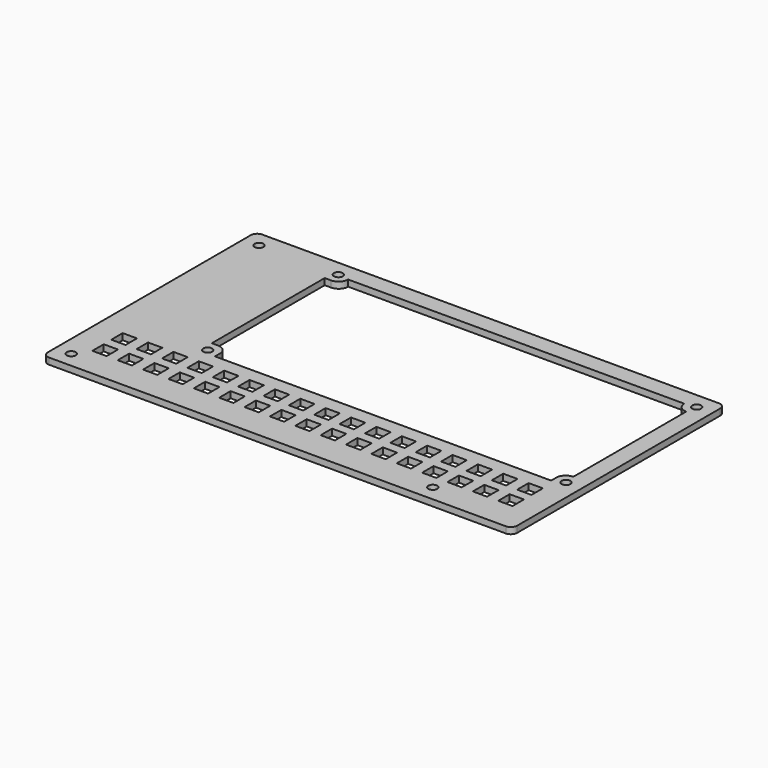
from build123d import *

# Parameters (mm, degrees)
F0_R     = 1.4
F0_W     = 4.5
F0_H     = 4.5
F1_DEPTH = 2


with BuildPart() as f1:
    # F0 (on Top) → F1 (new body)
    with BuildSketch(Plane.XY):
        with BuildLine():
            Line((71.545826, 22.863086), (-72.454174, 22.863086))
            ThreePointArc((-72.454174, 22.863086), (-73.868388, 22.277299), (-74.454174, 20.863086))
            Line((-74.454174, 20.863086), (-74.454174, -59.136914))
            ThreePointArc((-74.454174, -59.136914), (-73.868388, -60.551128), (-72.454174, -61.136914))
            Line((-72.454174, -61.136914), (71.545826, -61.136914))
            ThreePointArc((71.545826, -61.136914), (72.960039, -60.551128), (73.545826, -59.136914))
            Line((73.545826, -59.136914), (73.545826, 20.863086))
            ThreePointArc((73.545826, 20.863086), (72.960039, 22.277299), (71.545826, 22.863086))
        make_face()
        with Locations((-69.454174, -56.136914)):
            Circle(F0_R, mode=Mode.SUBTRACT)
        with Locations((-64.137191, -49.445186)):
            Rectangle(F0_W, F0_H, mode=Mode.SUBTRACT)
        with Locations((-56.137191, -49.445186)):
            Rectangle(F0_W, F0_H, mode=Mode.SUBTRACT)
        with Locations((-64.204174, -41.886914)):
            Rectangle(F0_W, F0_H, mode=Mode.SUBTRACT)
        with Locations((-56.204174, -41.886914)):
            Rectangle(F0_W, F0_H, mode=Mode.SUBTRACT)
        with Locations((-48.137191, -49.445186)):
            Rectangle(F0_W, F0_H, mode=Mode.SUBTRACT)
        with Locations((-40.137191, -49.445186)):
            Rectangle(F0_W, F0_H, mode=Mode.SUBTRACT)
        with Locations((-48.204174, -41.886914)):
            Rectangle(F0_W, F0_H, mode=Mode.SUBTRACT)
        with Locations((-40.204174, -41.886914)):
            Rectangle(F0_W, F0_H, mode=Mode.SUBTRACT)
        with Locations((-32.137191, -49.445186)):
            Rectangle(F0_W, F0_H, mode=Mode.SUBTRACT)
        with Locations((-24.137191, -49.445186)):
            Rectangle(F0_W, F0_H, mode=Mode.SUBTRACT)
        with Locations((-32.204174, -41.886914)):
            Rectangle(F0_W, F0_H, mode=Mode.SUBTRACT)
        with Locations((-24.204174, -41.886914)):
            Rectangle(F0_W, F0_H, mode=Mode.SUBTRACT)
        with Locations((-16.137191, -49.445186)):
            Rectangle(F0_W, F0_H, mode=Mode.SUBTRACT)
        with Locations((-8.137191, -49.445186)):
            Rectangle(F0_W, F0_H, mode=Mode.SUBTRACT)
        with Locations((-16.204174, -41.886914)):
            Rectangle(F0_W, F0_H, mode=Mode.SUBTRACT)
        with Locations((-8.204174, -41.886914)):
            Rectangle(F0_W, F0_H, mode=Mode.SUBTRACT)
        with Locations((-44.454174, -33.636914)):
            Circle(F0_R, mode=Mode.SUBTRACT)
        with Locations((-0.137191, -49.445186)):
            Rectangle(F0_W, F0_H, mode=Mode.SUBTRACT)
        with Locations((7.862809, -49.445186)):
            Rectangle(F0_W, F0_H, mode=Mode.SUBTRACT)
        with Locations((15.862809, -49.445186)):
            Rectangle(F0_W, F0_H, mode=Mode.SUBTRACT)
        with Locations((-0.204174, -41.886914)):
            Rectangle(F0_W, F0_H, mode=Mode.SUBTRACT)
        with Locations((7.795826, -41.886914)):
            Rectangle(F0_W, F0_H, mode=Mode.SUBTRACT)
        with Locations((15.795826, -41.886914)):
            Rectangle(F0_W, F0_H, mode=Mode.SUBTRACT)
        with Locations((23.862809, -49.445186)):
            Rectangle(F0_W, F0_H, mode=Mode.SUBTRACT)
        with Locations((31.862809, -49.445186)):
            Rectangle(F0_W, F0_H, mode=Mode.SUBTRACT)
        with Locations((23.795826, -41.886914)):
            Rectangle(F0_W, F0_H, mode=Mode.SUBTRACT)
        with Locations((31.795826, -41.886914)):
            Rectangle(F0_W, F0_H, mode=Mode.SUBTRACT)
        with Locations((44.545826, -56.136914)):
            Circle(F0_R, mode=Mode.SUBTRACT)
        with Locations((39.862809, -49.445186)):
            Rectangle(F0_W, F0_H, mode=Mode.SUBTRACT)
        with Locations((47.862809, -49.445186)):
            Rectangle(F0_W, F0_H, mode=Mode.SUBTRACT)
        with Locations((39.795826, -41.886914)):
            Rectangle(F0_W, F0_H, mode=Mode.SUBTRACT)
        with Locations((47.795826, -41.886914)):
            Rectangle(F0_W, F0_H, mode=Mode.SUBTRACT)
        with Locations((55.862809, -49.445186)):
            Rectangle(F0_W, F0_H, mode=Mode.SUBTRACT)
        with Locations((63.862809, -49.445186)):
            Rectangle(F0_W, F0_H, mode=Mode.SUBTRACT)
        with Locations((55.795826, -41.886914)):
            Rectangle(F0_W, F0_H, mode=Mode.SUBTRACT)
        with Locations((63.795826, -41.886914)):
            Rectangle(F0_W, F0_H, mode=Mode.SUBTRACT)
        with Locations((68.545826, -33.636914)):
            Circle(F0_R, mode=Mode.SUBTRACT)
        with Locations((-69.454174, 17.863086)):
            Circle(F0_R, mode=Mode.SUBTRACT)
        with Locations((-44.454174, 17.863086)):
            Circle(F0_R, mode=Mode.SUBTRACT)
        with BuildLine():
            Line((-45.954174, -30.136914), (-45.954174, 14.363086))
            Line((-45.954174, 14.363086), (-43.954174, 14.363086))
            ThreePointArc((-43.954174, 14.363086), (-41.832854, 15.241765), (-40.954174, 17.363086))
            Line((-40.954174, 17.363086), (65.045826, 17.363086))
            ThreePointArc((65.045826, 17.363086), (65.924505, 15.241765), (68.045826, 14.363086))
            Line((68.045826, 14.363086), (68.045826, -30.136914))
            ThreePointArc((68.045826, -30.136914), (65.924505, -31.015594), (65.045826, -33.136914))
            Line((65.045826, -33.136914), (65.045826, -35.136914))
            Line((65.045826, -35.136914), (-40.954174, -35.136914))
            Line((-40.954174, -35.136914), (-40.954174, -33.136914))
            ThreePointArc((-40.954174, -33.136914), (-41.832854, -31.015594), (-43.954174, -30.136914))
            Line((-43.954174, -30.136914), (-45.954174, -30.136914))
        make_face(mode=Mode.SUBTRACT)
        with Locations((68.545826, 17.863086)):
            Circle(F0_R, mode=Mode.SUBTRACT)
    extrude(amount=F1_DEPTH)


solid = f1.part
